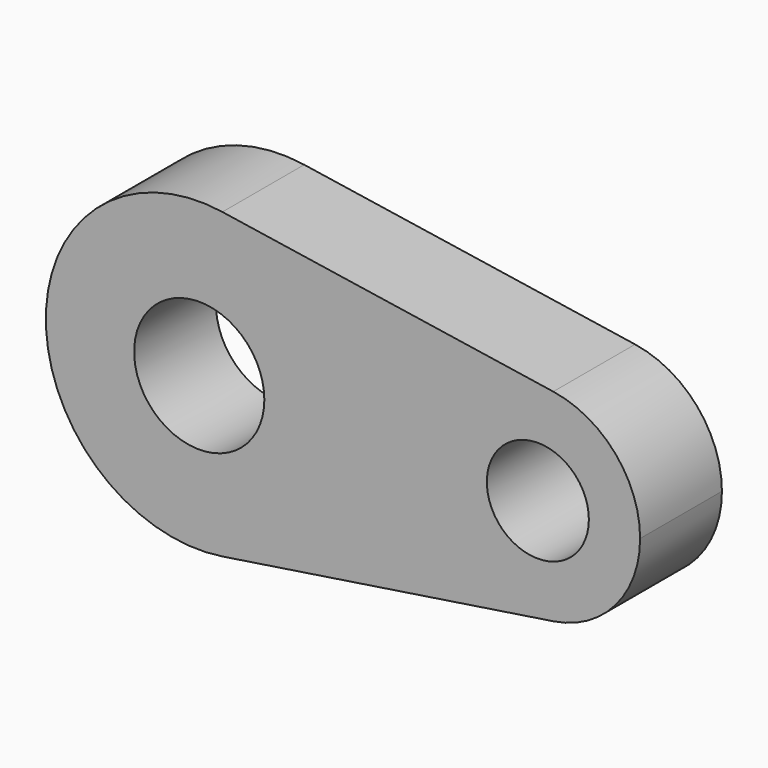
from build123d import *

# Parameters (mm, degrees)
F0_R     = 12.673028
F0_R_2   = 16.168117
F1_DEPTH = 25.4


with BuildPart() as f1:
    # F0 (on Front) → F1 (new body)
    with BuildSketch(Plane.XZ):
        with BuildLine():
            ThreePointArc((5.753599, 37.66306), (28.903478, 24.823355), (38.1, 0))
            ThreePointArc((38.1, 0), (28.903478, -24.823355), (5.753599, -37.66306))
            Line((5.753599, -37.66306), (87.934396, -25.108707))
            ThreePointArc((87.934396, -25.108707), (58.698664, 0), (87.934396, 25.108707))
            Line((87.934396, 25.108707), (5.753599, 37.66306))
        make_face()
        with BuildLine():
            ThreePointArc((109.498664, 0), (103.367649, 16.548903), (87.934396, 25.108707))
            ThreePointArc((87.934396, 25.108707), (58.698664, 0), (87.934396, -25.108707))
            ThreePointArc((87.934396, -25.108707), (103.367649, -16.548903), (109.498664, 0))
        make_face()
        with Locations((84.098664, 0)):
            Circle(F0_R, mode=Mode.SUBTRACT)
        with BuildLine():
            ThreePointArc((5.753599, -37.66306), (28.903478, -24.823355), (38.1, 0))
            ThreePointArc((38.1, 0), (28.903478, 24.823355), (5.753599, 37.66306))
            ThreePointArc((5.753599, 37.66306), (-38.1, 0), (5.753599, -37.66306))
        make_face()
        Circle(F0_R_2, mode=Mode.SUBTRACT)
    extrude(amount=F1_DEPTH)


solid = f1.part
